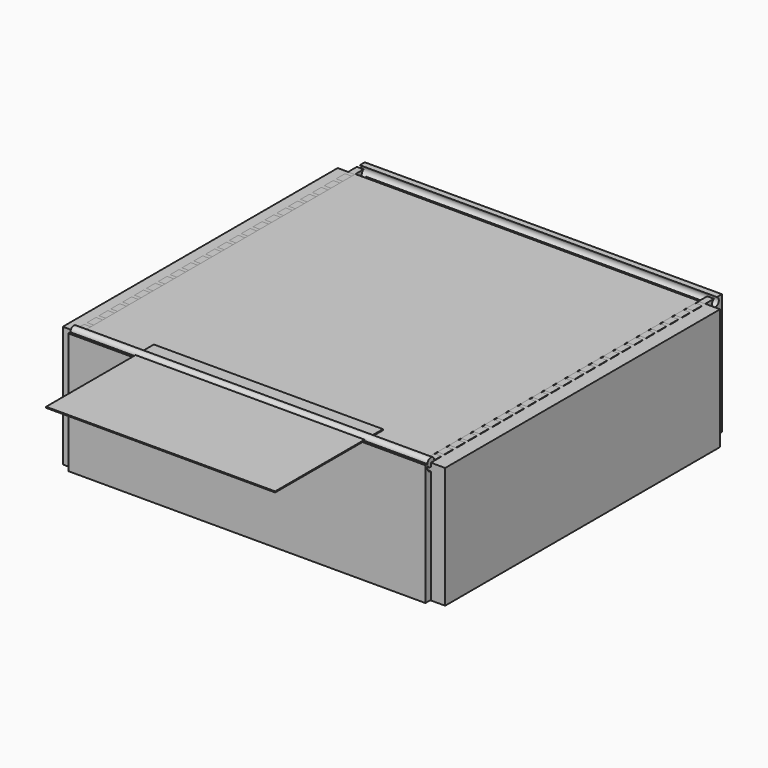
from build123d import *

# Parameters (mm, degrees)
F0_W      = 2590.8
F0_H      = 2590.8
F1_DEPTH  = 3.175
F2_W      = 2882.9
F2_H      = 2590.8
F3_DEPTH  = 914.4
F4_W      = 2590.8
F4_H      = 2794
F5_DEPTH  = 914.4
F7_W      = 2692.4
F7_H      = 2794
F7_W_2    = 2590.8
F7_H_2    = 2692.4
F8_DEPTH  = 914.4
F9_R      = 31.75
F10_DEPTH = 1346.2
F11_R     = 31.75
F12_DEPTH = 2774.951
F13_W     = 1727.2
F13_H     = 1016
F14_DEPTH = 7.62


with BuildPart() as f1:
    # F0 (on Top) → F1 (new body)
    with BuildSketch(Plane.XY):
        with Locations((0, 1295.4)):
            Rectangle(F0_W, F0_H)
    extrude(amount=-F1_DEPTH)

    # F2 (on face) → F3 (join)
    with BuildSketch(Plane(origin=(0, 0, -3.175), x_dir=(1, 0, 0), z_dir=(0, 0, -1))):
        with Locations((12.7, -1295.4)):
            Rectangle(F2_W, F2_H)
    extrude(amount=F3_DEPTH)


with BuildPart() as f5:
    # F4 (on Top) → F5 (new body)
    with BuildSketch(Plane.XY):
        Polygon((-1295.4, 0), (-1295.4, 25.4), (-1346.2, 25.4), (-1346.2, -2870.2), (1346.2, -2870.2), (1346.2, 25.4), (1295.4, 25.4), (1295.4, 0), align=None)
        with Locations((0, -1422.4)):
            Rectangle(F4_W, F4_H, mode=Mode.SUBTRACT)
    extrude(amount=-F5_DEPTH)


with BuildPart() as f8:
    # F7 (on Top) → F8 (new body)
    with BuildSketch(Plane.XY):
        with Locations((0, 1346.2)):
            Rectangle(F7_W, F7_H)
        with Locations((0, 1346.2)):
            Rectangle(F7_W_2, F7_H_2, mode=Mode.SUBTRACT)
    extrude(amount=-F8_DEPTH)

    # F11 (on face) → F12 (cut, through all)
    with BuildSketch(Plane.YZ.offset(1346.2)):
        with Locations((0, -28.575)):
            Circle(F11_R)
        with Locations((111.76, -28.575)):
            Circle(F11_R)
        with Locations((223.52, -28.575)):
            Circle(F11_R)
        with Locations((335.28, -28.575)):
            Circle(F11_R)
        with Locations((447.04, -28.575)):
            Circle(F11_R)
        with Locations((558.8, -28.575)):
            Circle(F11_R)
        with Locations((670.56, -28.575)):
            Circle(F11_R)
        with Locations((782.32, -28.575)):
            Circle(F11_R)
        with Locations((894.08, -28.575)):
            Circle(F11_R)
        with Locations((1005.84, -28.575)):
            Circle(F11_R)
        with Locations((1117.6, -28.575)):
            Circle(F11_R)
        with Locations((1229.36, -28.575)):
            Circle(F11_R)
        with Locations((1341.12, -28.575)):
            Circle(F11_R)
        with Locations((1452.88, -28.575)):
            Circle(F11_R)
        with Locations((1564.64, -28.575)):
            Circle(F11_R)
        with Locations((1676.4, -28.575)):
            Circle(F11_R)
        with Locations((1788.16, -28.575)):
            Circle(F11_R)
        with Locations((1899.92, -28.575)):
            Circle(F11_R)
        with Locations((2011.68, -28.575)):
            Circle(F11_R)
        with Locations((2123.44, -28.575)):
            Circle(F11_R)
        with Locations((2235.2, -28.575)):
            Circle(F11_R)
        with Locations((2346.96, -28.575)):
            Circle(F11_R)
        with Locations((2458.72, -28.575)):
            Circle(F11_R)
        with Locations((2570.48, -28.575)):
            Circle(F11_R)
        with Locations((2682.24, -28.575)):
            Circle(F11_R)
    extrude(amount=-F12_DEPTH, mode=Mode.SUBTRACT)


with BuildPart() as f10:
    # F9 (on Right) → F10 (new body, symmetric)
    with BuildSketch(Plane.YZ):
        Circle(F9_R)
    extrude(amount=F10_DEPTH, both=True)


with BuildPart() as f14:
    # F13 (on Top) → F14 (new body)
    with BuildSketch(Plane.XY):
        with Locations((8.2183043999, -366.1480918527)):
            Rectangle(F13_W, F13_H)
    extrude(amount=F14_DEPTH)


solid = Compound([f1.part, f8.part, f10.part, f14.part])
